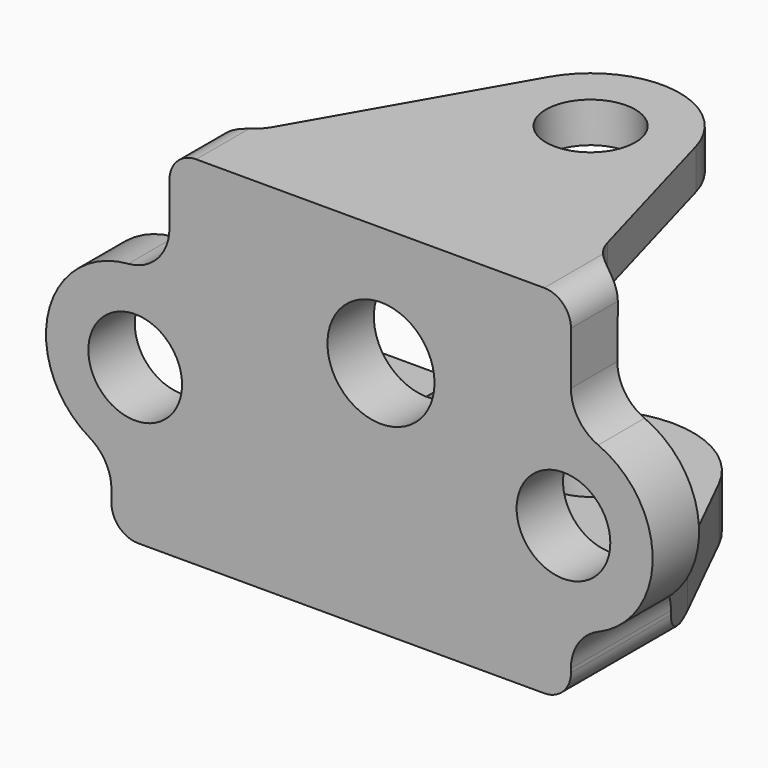
from build123d import *

# Parameters (mm, degrees)
F0_R      = 5.25
F0_R_2    = 6
F1_DEPTH  = 40
F2_W      = 50
F2_H      = 29.5
F3_DEPTH  = 100
F4_DEPTH  = 100
F5_R      = 5
F6_DEPTH  = 50
F8_DEPTH  = 15
F10_DEPTH = 15
F11_W     = 15
F11_H     = 11
F12_DEPTH = 9.5


with BuildPart() as f1:
    # F0 (on Front) → F1 (new body)
    with BuildSketch(Plane.XZ):
        with BuildLine():
            Line((30.785211, 32.843663), (-8.214789, 32.843663))
            ThreePointArc((-8.214789, 32.843663), (-10.336109, 31.964984), (-11.214789, 29.843663))
            Line((-11.214789, 29.843663), (-11.214789, 25.048589))
            ThreePointArc((-11.214789, 25.048589), (-12.544869, 21.652755), (-15.827465, 20.063614))
            ThreePointArc((-15.827465, 20.063614), (-24.791107, 12.366478), (-20.160798, 1.496657))
            ThreePointArc((-20.160798, 1.496657), (-18.369104, -0.328989), (-17.714789, -2.801847))
            Line((-17.714789, -2.801847), (-17.714789, -4.156337))
            ThreePointArc((-17.714789, -4.156337), (-16.836109, -6.277657), (-14.714789, -7.156337))
            Line((-14.714789, -7.156337), (30.785211, -7.156337))
            ThreePointArc((30.785211, -7.156337), (32.906531, -6.277657), (33.785211, -4.156337))
            Line((33.785211, -4.156337), (33.785211, -3.723625))
            ThreePointArc((33.785211, -3.723625), (34.618075, -0.960478), (36.839202, 0.882138))
            ThreePointArc((36.839202, 0.882138), (42.947184, 10.093663), (36.839202, 19.305188))
            ThreePointArc((36.839202, 19.305188), (34.618075, 21.147805), (33.785211, 23.910951))
            Line((33.785211, 23.910951), (33.785211, 29.843663))
            ThreePointArc((33.785211, 29.843663), (32.906531, 31.964984), (30.785211, 32.843663))
        make_face()
        with Locations((-15.052816, 10.093663)):
            Circle(F0_R, mode=Mode.SUBTRACT)
        with Locations((32.947184, 10.093663)):
            Circle(F0_R, mode=Mode.SUBTRACT)
        with Locations((12.493362, 19.468693)):
            Circle(F0_R_2, mode=Mode.SUBTRACT)
    extrude(amount=F1_DEPTH)

    # F2 (on Right) → F3 (cut)
    with BuildSketch(Plane.YZ):
        with Locations((-8.5, 13.593663)):
            Rectangle(F2_W, F2_H)
    extrude(amount=-F3_DEPTH, mode=Mode.SUBTRACT)

    # F2 (on Right) → F4 (cut)
    with BuildSketch(Plane.YZ):
        with Locations((-8.5, 13.593663)):
            Rectangle(F2_W, F2_H)
    extrude(amount=F4_DEPTH, mode=Mode.SUBTRACT)

    # F5 (on face) → F6 (cut)
    with BuildSketch(Plane(origin=(0, 0, -7.156337), x_dir=(1, 0, 0), z_dir=(0, 0, -1))):
        with Locations((14.785211, 13.5)):
            Circle(F5_R)
    extrude(amount=-F6_DEPTH, mode=Mode.SUBTRACT)

    # F7 (on face) → F8 (cut)
    with BuildSketch(Plane(origin=(0, 0, -7.156337), x_dir=(1, 0, 0), z_dir=(0, 0, -1))):
        with BuildLine():
            ThreePointArc((25.095301, 8.405686), (16.964946, 2.208465), (7.112094, 4.93418))
            Line((7.112094, 4.93418), (-14.714789, 24.486333))
            Line((-14.714789, 24.486333), (-14.714789, 0))
            Line((-14.714789, 0), (30.785211, 0))
            Line((30.785211, 0), (30.785211, 19.921168))
            Line((30.785211, 19.921168), (25.095301, 8.405686))
        make_face()
        Polygon((-14.714789, 0), (-14.714789, 24.486333), (-18.07907, 27.5), (-24.334732, 27.5), (-24.334732, -4.176865), (44.914905, -4.176865), (44.914905, 27.5), (34.529984, 27.5), (30.785211, 19.921168), (30.785211, 0), align=None)
    extrude(amount=-F8_DEPTH, mode=Mode.SUBTRACT)

    # F9 (on face) → F10 (cut)
    with BuildSketch(Plane.XY.offset(32.843663)):
        with BuildLine():
            ThreePointArc((6.11086, -8.524496), (16.017743, -3.576248), (24.413154, -10.797646))
            Line((24.413154, -10.797646), (29.761066, -29.851177))
            ThreePointArc((29.761066, -29.851177), (30.168378, -30.86249), (30.785211, -31.761475))
            Line((30.785211, -31.761475), (30.785211, 0))
            Line((30.785211, 0), (-8.214789, 0))
            Line((-8.214789, 0), (-8.214789, -32.575799))
            ThreePointArc((-8.214789, -32.575799), (-7.408155, -31.859936), (-6.773794, -30.987752))
            Line((-6.773794, -30.987752), (6.11086, -8.524496))
        make_face()
        with BuildLine():
            Line((30.785211, 0), (30.785211, -31.761475))
            ThreePointArc((30.785211, -31.761475), (32.490256, -33.044633), (34.575037, -33.5))
            Line((34.575037, -33.5), (55.997241, -33.5))
            Line((55.997241, -33.5), (49.117599, 6.79242))
            Line((49.117599, 6.79242), (-12.63734, 6.79242))
            Line((-12.63734, 6.79242), (-31.90035, -33.5))
            Line((-31.90035, -33.5), (-11.110969, -33.5))
            ThreePointArc((-11.110969, -33.5), (-9.590936, -33.26335), (-8.214789, -32.575799))
            Line((-8.214789, -32.575799), (-8.214789, 0))
            Line((-8.214789, 0), (30.785211, 0))
        make_face()
    extrude(amount=-F10_DEPTH, mode=Mode.SUBTRACT)

    # F11 (on face) → F12 (join)
    with BuildSketch(Plane(origin=(0, -33.5, 0), x_dir=(-1, 0, 0), z_dir=(0, 1, 0))):
        with Locations((-0.506683, 4.343663)):
            Rectangle(F11_W, F11_H)
    extrude(amount=F12_DEPTH)


solid = f1.part
